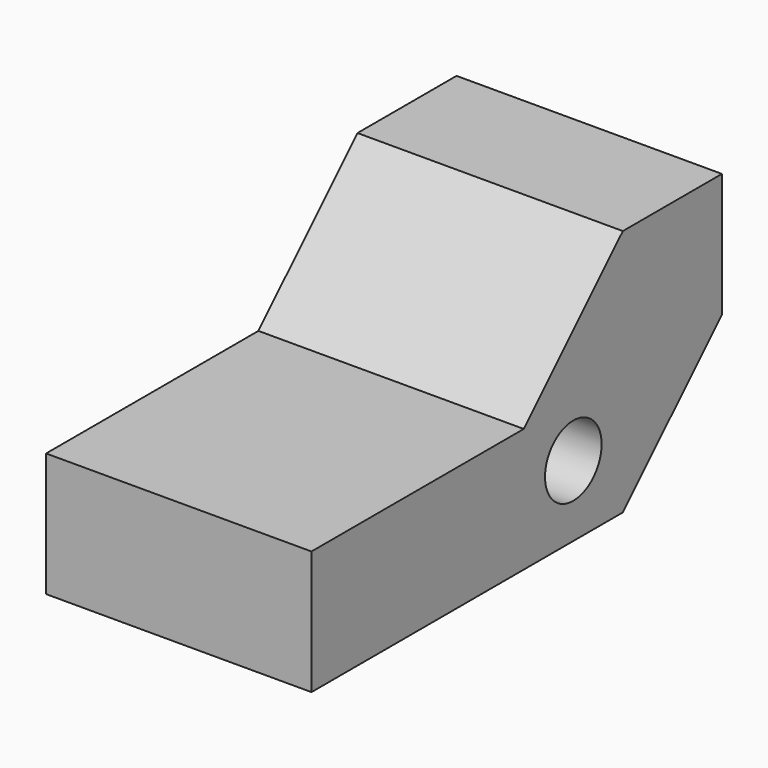
from build123d import *

# Parameters (mm, degrees)
F0_R     = 10.16
F1_DEPTH = 76.2


with BuildPart() as f1:
    # F0 (on Right) → F1 (new body)
    with BuildSketch(Plane.YZ):
        Polygon((-35.56, 35.56), (-111.76, 35.56), (-111.76, 0), (0, 0), (35.56, 35.56), (35.56, 71.12), (0, 71.12), align=None)
        with Locations((-17.78, 20.32)):
            Circle(F0_R, mode=Mode.SUBTRACT)
    extrude(amount=-F1_DEPTH)


solid = f1.part
